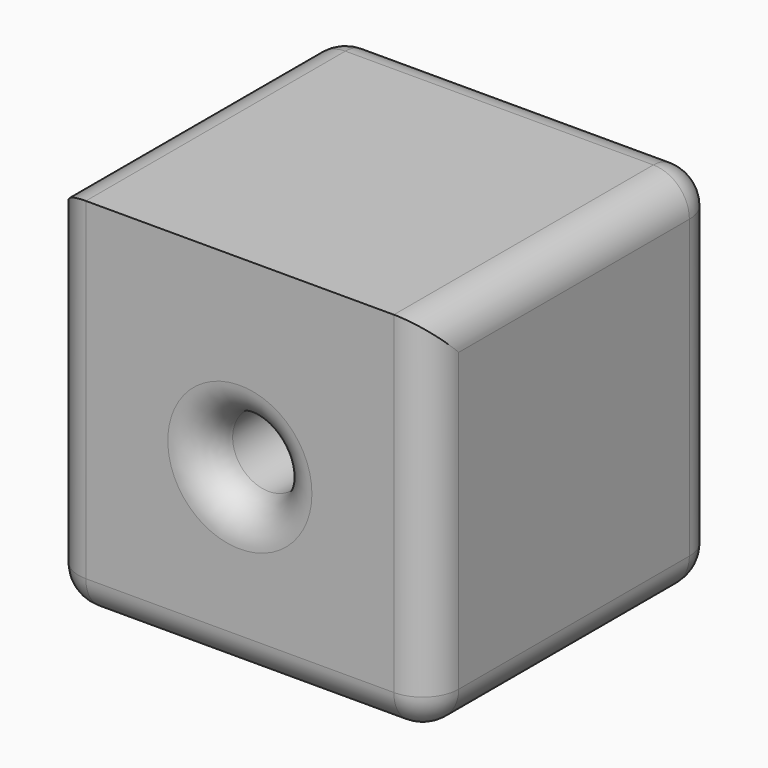
from build123d import *

# Parameters (mm, degrees)
F0_W     = 52.736438
F0_H     = 51.140826
F1_DEPTH = 50
F2_R     = 5
F3_DEPTH = 50.001
F4_R     = 5


with BuildPart() as f1:
    # F0 (on Front) → F1 (new body)
    with BuildSketch(Plane.XZ):
        Rectangle(F0_W, F0_H)
    extrude(amount=F1_DEPTH)

    # F2 (on face) → F3 (cut, through all)
    with BuildSketch(Plane.XZ.offset(50)):
        Circle(F2_R)
    extrude(amount=-F3_DEPTH, mode=Mode.SUBTRACT)

    # F4
    f4_edges = [f1.edges().sort_by_distance(p)[0] for p in [
        (-5, -50, 0),
        (-5, 0, 0),
        (26.368219, -25, -25.570413),
        (26.368219, -50, 0),
        (26.368219, 0, 0),
        (26.368219, -25, 25.570413),
        (0, -50, -25.570413),
        (-26.368219, -50, 0),
        (-26.368219, -25, -25.570413),
        (0, 0, -25.570413),
        (0, 0, 25.570413),
        (-26.368219, 0, 0),
        (-26.368219, -25, 25.570413),
    ]]
    fillet(f4_edges, radius=F4_R)


solid = f1.part
